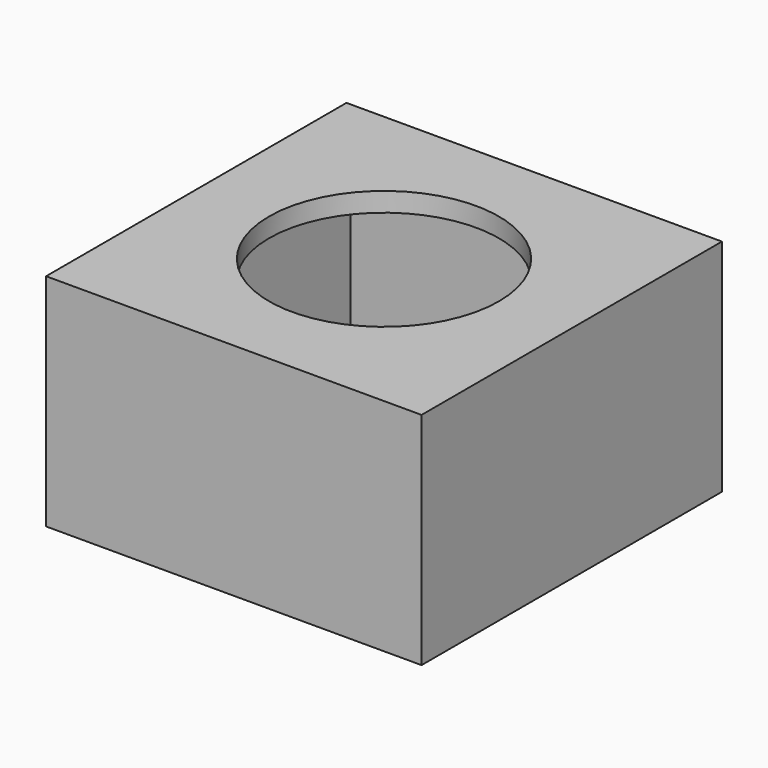
from build123d import *

# Parameters (mm, degrees)
F0_W     = 19.6
F0_H     = 19.6
F0_R     = 6
F1_DEPTH = 1
F2_W     = 19.6
F2_H     = 19.6
F2_W_2   = 17.6
F2_H_2   = 17.6
F3_DEPTH = 10.5


with BuildPart() as f1:
    # F0 (on Top) → F1 (new body)
    with BuildSketch(Plane.XY):
        Rectangle(F0_W, F0_H)
        Circle(F0_R, mode=Mode.SUBTRACT)
    extrude(amount=F1_DEPTH)

    # F2 (on face) → F3 (join)
    with BuildSketch(Plane(origin=(0, 0, 0), x_dir=(1, 0, 0), z_dir=(0, 0, -1))):
        Rectangle(F2_W, F2_H)
        Rectangle(F2_W_2, F2_H_2, mode=Mode.SUBTRACT)
    extrude(amount=F3_DEPTH)


solid = f1.part
